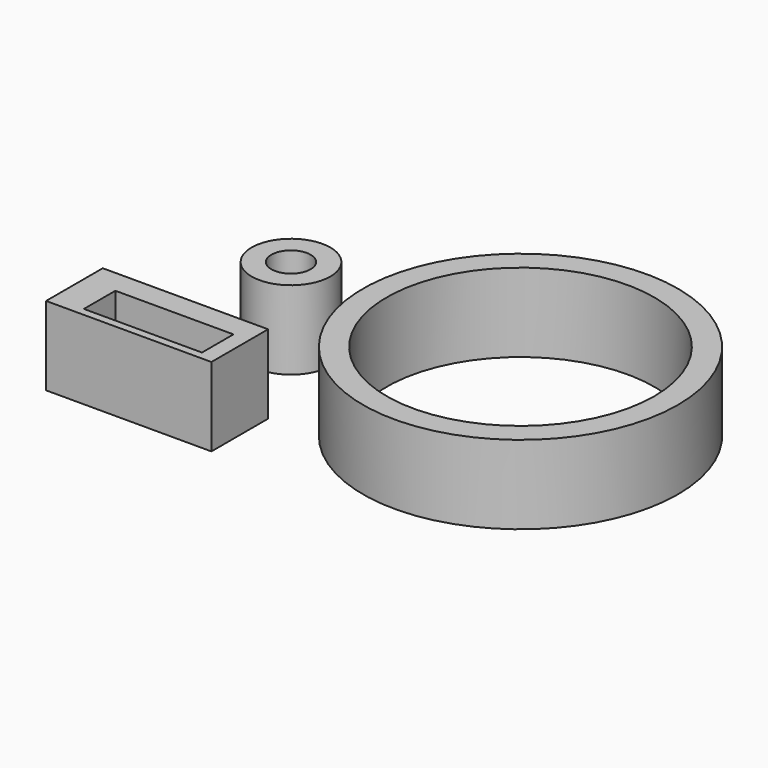
from build123d import *

# Parameters (mm, degrees)
F0_R     = 20
F0_R_2   = 17
F0_R_3   = 5
F0_R_4   = 2.5
F1_DEPTH = 10
F2_W     = 21
F2_H     = 9
F2_W_2   = 15
F2_H_2   = 5
F3_DEPTH = 10


with BuildPart() as f1:
    # F0 (on Top) → F1 (new body)
    with BuildSketch(Plane.XY):
        with Locations((29.149298, 0)):
            Circle(F0_R)
        with Locations((29.149298, 0)):
            Circle(F0_R_2, mode=Mode.SUBTRACT)
        Circle(F0_R_3)
        Circle(F0_R_4, mode=Mode.SUBTRACT)
    extrude(amount=F1_DEPTH)


with BuildPart() as f3:
    # F2 (on Top) → F3 (new body)
    with BuildSketch(Plane.XY):
        with Locations((-3.245429, -17.203346)):
            Rectangle(F2_W, F2_H)
        with Locations((-2.245429, -18.203346)):
            Rectangle(F2_W_2, F2_H_2, mode=Mode.SUBTRACT)
    extrude(amount=F3_DEPTH)


solid = Compound([f1.part, f3.part])
